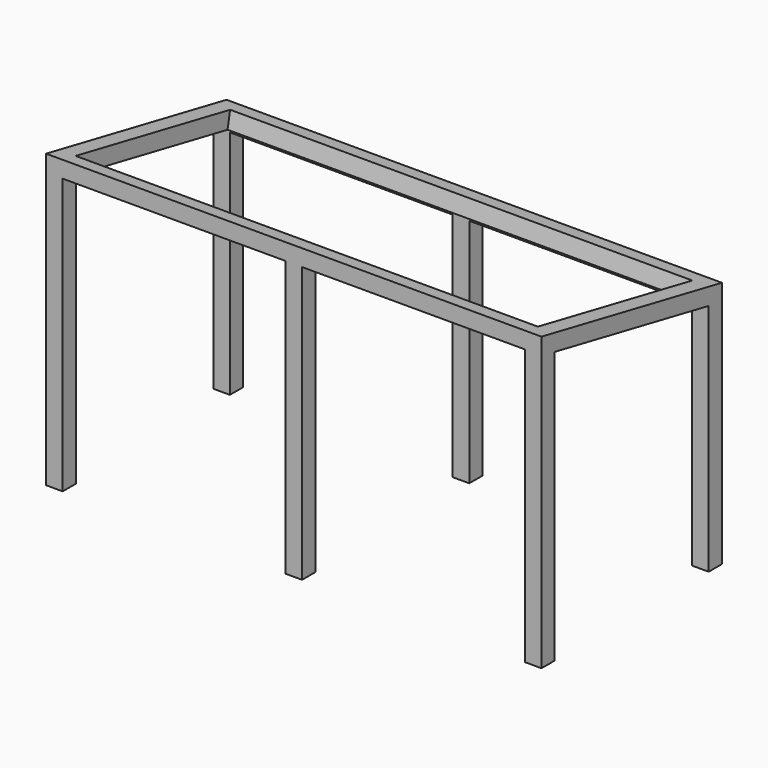
from build123d import *

# Parameters (mm, degrees)
F0_W      = 2240
F0_H      = 1320
F1_DEPTH  = 1020
F3_DEPTH  = 2240.001
F5_DEPTH  = 2240.001
F6_W      = 1007.5
F6_H      = 1045
F7_DEPTH  = 75
F8_W      = 1007.5
F8_H      = 1245
F9_DEPTH  = 75
F10_W     = 2090
F10_H     = 889.4229168149
F11_DEPTH = 75


with BuildPart() as f1:
    # F0 (on Front) → F1 (new body)
    with BuildSketch(Plane.XZ):
        with Locations((1120, 660)):
            Rectangle(F0_W, F0_H)
    extrude(amount=-F1_DEPTH)

    # F2 (on face) → F3 (cut, through all)
    with BuildSketch(Plane(origin=(0, 0, 0), x_dir=(0, -1, 0), z_dir=(-1, 0, 0))):
        Polygon((-1020, 1120), (0, 1320), (-1020, 1320), align=None)
    extrude(amount=-F3_DEPTH, mode=Mode.SUBTRACT)

    # F4 (on face) → F5 (cut, through all)
    with BuildSketch(Plane(origin=(0, 0, 0), x_dir=(0, -1, 0), z_dir=(-1, 0, 0))):
        Polygon((-945, 0), (-75, 0), (-75, 1228.8659619989), (-945, 1058.2777267048), align=None)
    extrude(amount=-F5_DEPTH, mode=Mode.SUBTRACT)

    # F6 (on face) → F7 (cut, through all)
    with BuildSketch(Plane(origin=(0, 1020, 0), x_dir=(-1, 0, 0), z_dir=(0, 1, 0))):
        with Locations((-1661.25, 522.5)):
            Rectangle(F6_W, F6_H)
        with Locations((-578.75, 522.5)):
            Rectangle(F6_W, F6_H)
    extrude(amount=-F7_DEPTH, mode=Mode.SUBTRACT)

    # F8 (on face) → F9 (cut)
    with BuildSketch(Plane.XZ):
        with Locations((578.75, 622.5)):
            Rectangle(F8_W, F8_H)
        with Locations((1661.25, 622.5)):
            Rectangle(F8_W, F8_H)
    extrude(amount=-F9_DEPTH, mode=Mode.SUBTRACT)

    # F10 (on face) → F11 (cut)
    with BuildSketch(Plane(origin=(0, 249.2410218438, 1271.1292114032), x_dir=(1, 0, 0), z_dir=(0, 0.1924144607, 0.9813137497))):
        with Locations((1120, 265.7243702557)):
            Rectangle(F10_W, F10_H)
    extrude(amount=-F11_DEPTH, mode=Mode.SUBTRACT)


solid = f1.part
